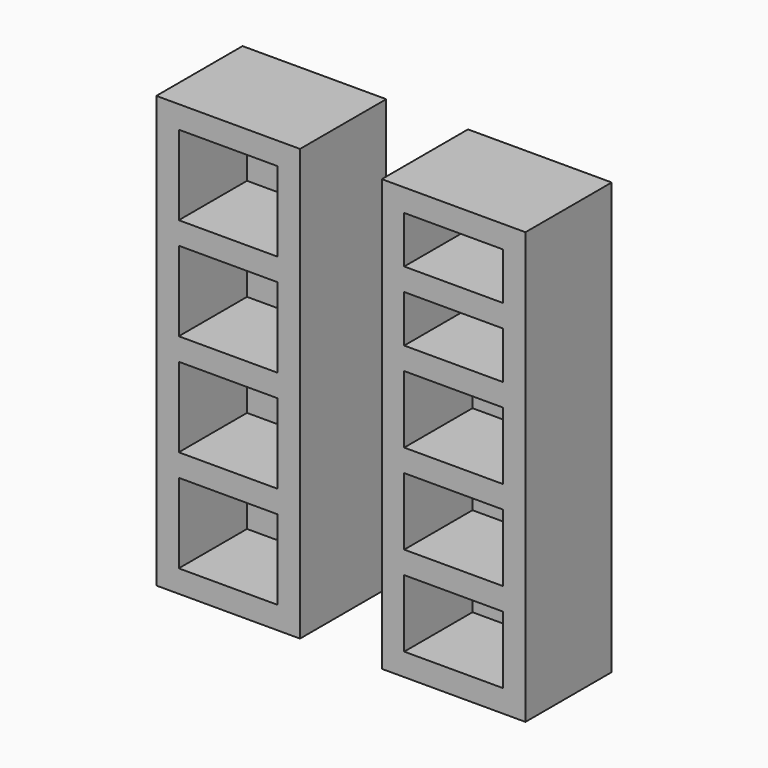
from build123d import *

# Parameters (mm, degrees)
F0_W     = 406.4
F0_H     = 1219.2
F0_W_2   = 279.4
F0_H_2   = 225.425
F0_H_3   = 63.5
F0_H_4   = 190.5
F0_H_5   = 133.35
F1_DEPTH = 63.5
F2_DEPTH = 241.3


with BuildPart() as f1:
    # F0 (on Front) → F1 (new body)
    with BuildSketch(Plane.XZ):
        with Locations((-434.421811, 609.6)):
            Rectangle(F0_W, F0_H)
        Polygon((-574.121811, 1155.7), (-294.721811, 1155.7), (-294.721811, 930.275), (-294.721811, 866.775), (-294.721811, 641.35), (-294.721811, 577.85), (-294.721811, 352.425), (-294.721811, 288.925), (-294.721811, 63.5), (-574.121811, 63.5), (-574.121811, 288.925), (-574.121811, 352.425), (-574.121811, 577.85), (-574.121811, 641.35), (-574.121811, 866.775), (-574.121811, 930.275), align=None, mode=Mode.SUBTRACT)
        with Locations((203.2, 609.6)):
            Rectangle(F0_W, F0_H)
        Polygon((342.9, 254), (342.9, 63.5), (63.5, 63.5), (63.5, 254), (63.5, 317.5), (63.5, 508), (63.5, 571.5), (63.5, 762), (63.5, 825.5), (63.5, 958.85), (63.5, 1022.35), (63.5, 1155.7), (342.9, 1155.7), (342.9, 1022.35), (342.9, 958.85), (342.9, 825.5), (342.9, 762), (342.9, 571.5), (342.9, 508), (342.9, 317.5), align=None, mode=Mode.SUBTRACT)
        with Locations((-434.421811, 1042.9875)):
            Rectangle(F0_W_2, F0_H_2)
        with Locations((-434.421811, 898.525)):
            Rectangle(F0_W_2, F0_H_3)
        with Locations((-434.421811, 754.0625)):
            Rectangle(F0_W_2, F0_H_2)
        with Locations((-434.421811, 609.6)):
            Rectangle(F0_W_2, F0_H_3)
        with Locations((-434.421811, 465.1375)):
            Rectangle(F0_W_2, F0_H_2)
        with Locations((-434.421811, 320.675)):
            Rectangle(F0_W_2, F0_H_3)
        with Locations((-434.421811, 176.2125)):
            Rectangle(F0_W_2, F0_H_2)
        with Locations((203.2, 158.75)):
            Rectangle(F0_W_2, F0_H_4)
        with Locations((203.2, 285.75)):
            Rectangle(F0_W_2, F0_H_3)
        with Locations((203.2, 412.75)):
            Rectangle(F0_W_2, F0_H_4)
        with Locations((203.2, 539.75)):
            Rectangle(F0_W_2, F0_H_3)
        with Locations((203.2, 666.75)):
            Rectangle(F0_W_2, F0_H_4)
        with Locations((203.2, 793.75)):
            Rectangle(F0_W_2, F0_H_3)
        with Locations((203.2, 892.175)):
            Rectangle(F0_W_2, F0_H_5)
        with Locations((203.2, 990.6)):
            Rectangle(F0_W_2, F0_H_3)
        with Locations((203.2, 1089.025)):
            Rectangle(F0_W_2, F0_H_5)
    extrude(amount=-F1_DEPTH)

    # F0 (on Front) → F2 (join)
    with BuildSketch(Plane.XZ):
        with Locations((-434.421811, 609.6)):
            Rectangle(F0_W, F0_H)
        Polygon((-574.121811, 1155.7), (-294.721811, 1155.7), (-294.721811, 930.275), (-294.721811, 866.775), (-294.721811, 641.35), (-294.721811, 577.85), (-294.721811, 352.425), (-294.721811, 288.925), (-294.721811, 63.5), (-574.121811, 63.5), (-574.121811, 288.925), (-574.121811, 352.425), (-574.121811, 577.85), (-574.121811, 641.35), (-574.121811, 866.775), (-574.121811, 930.275), align=None, mode=Mode.SUBTRACT)
        with Locations((-434.421811, 898.525)):
            Rectangle(F0_W_2, F0_H_3)
        with Locations((-434.421811, 609.6)):
            Rectangle(F0_W_2, F0_H_3)
        with Locations((-434.421811, 320.675)):
            Rectangle(F0_W_2, F0_H_3)
        with Locations((203.2, 609.6)):
            Rectangle(F0_W, F0_H)
        Polygon((342.9, 254), (342.9, 63.5), (63.5, 63.5), (63.5, 254), (63.5, 317.5), (63.5, 508), (63.5, 571.5), (63.5, 762), (63.5, 825.5), (63.5, 958.85), (63.5, 1022.35), (63.5, 1155.7), (342.9, 1155.7), (342.9, 1022.35), (342.9, 958.85), (342.9, 825.5), (342.9, 762), (342.9, 571.5), (342.9, 508), (342.9, 317.5), align=None, mode=Mode.SUBTRACT)
        with Locations((203.2, 990.6)):
            Rectangle(F0_W_2, F0_H_3)
        with Locations((203.2, 793.75)):
            Rectangle(F0_W_2, F0_H_3)
        with Locations((203.2, 539.75)):
            Rectangle(F0_W_2, F0_H_3)
        with Locations((203.2, 285.75)):
            Rectangle(F0_W_2, F0_H_3)
    extrude(amount=F2_DEPTH)


solid = f1.part
